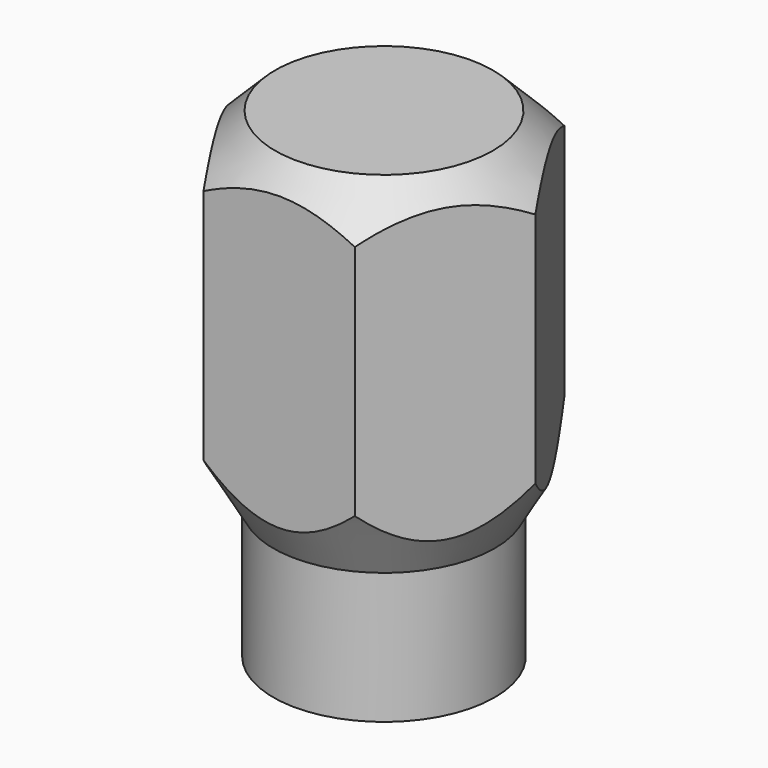
from build123d import *

# Parameters (mm, degrees)
F2_R     = 15.24
F3_DEPTH = 38.1


with BuildPart() as f1:
    # F0 (on Front) → F1 (revolve)
    with BuildSketch(Plane.XZ):
        Polygon((6.260633, 0), (8.0518, 0), (8.0518, 9.533371), (12.7, 17.584289), (12.7, 30.1498), (7.915939, 34.925), (0, 34.925), (0, 28.575), (4.9784, 26.530277), (4.9784, 1.269255), align=None)
    revolve(axis=Axis((0, 0, 14.2875), (0, 0, 1)))

    # F2 (on Top) → F3 (cut)
    with BuildSketch(Plane.XY):
        Circle(F2_R)
        Polygon((10.998523, 0), (5.499261, -9.525), (-5.499261, -9.525), (-10.998523, 0), (-5.499261, 9.525), (5.499261, 9.525), align=None, mode=Mode.SUBTRACT)
    extrude(amount=F3_DEPTH, mode=Mode.SUBTRACT)


solid = f1.part
